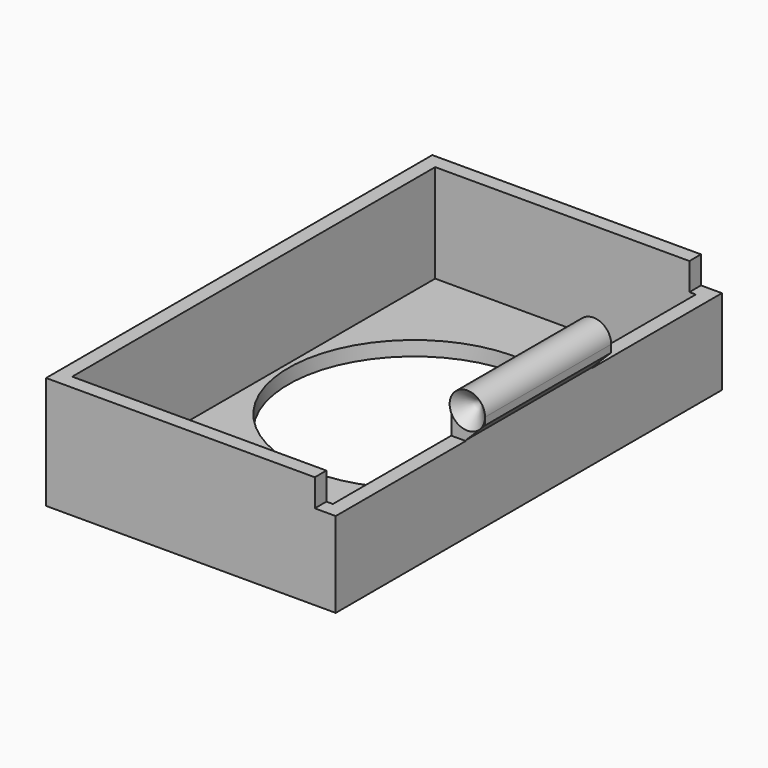
from build123d import *

# Parameters (mm, degrees)
SKETCH010_W     = 90
SKETCH010_H     = 150
PAD004_DEPTH    = 35
SKETCH011_W     = 81
SKETCH011_H     = 141
POCKET004_DEPTH = 30.5
SKETCH012_R     = 5.5
PAD005_DEPTH    = 150
SKETCH015_W     = 50.5
SKETCH015_H     = 14
POCKET006_DEPTH = 7.5
PAD007_DEPTH    = 49
SKETCH024_R     = 39
POCKET009_DEPTH = 5


with BuildPart() as part:
    # Sketch010 → Pad004 (new body)
    with BuildSketch(Plane.XY):
        with Locations((-46, 75)):
            Rectangle(SKETCH010_W, SKETCH010_H)
    extrude(amount=PAD004_DEPTH)

    # Sketch011 (on Face6 of Pad004) → Pocket004 (cut)
    with BuildSketch(Plane.XY.offset(35)):
        with Locations((-46, 75)):
            Rectangle(SKETCH011_W, SKETCH011_H)
    extrude(amount=-POCKET004_DEPTH, mode=Mode.SUBTRACT)

    # Sketch012 → Pad005 (join)
    with BuildSketch(Plane.XZ):
        with Locations((-0.5, 35)):
            Circle(SKETCH012_R)
    extrude(amount=-PAD005_DEPTH)

    # Sketch015 → Pocket006 (cut, symmetric)
    with BuildSketch(Plane.YZ):
        with Locations((25.25, 33.5)):
            Rectangle(SKETCH015_W, SKETCH015_H)
        with Locations((124.75, 33.5)):
            Rectangle(SKETCH015_W, SKETCH015_H)
    extrude(amount=POCKET006_DEPTH, both=True, mode=Mode.SUBTRACT)

    # Sketch016 (on Face13 of Pocket006) → Pad007 (join)
    with BuildSketch(Plane.XZ.offset(-50.5)):
        Polygon((-1, 26.7), (5, 32.7), (5, 35), (-1, 35), align=None)
    extrude(amount=-PAD007_DEPTH)

    # Sketch020 (on DatumPlane) → Groove (revolve, cut)
    with BuildSketch(Plane(origin=(-0.5, 99.5, 0), x_dir=(0, -1, 0), z_dir=(-1, 0, 0))):
        Polygon((-1, 28.5), (5.5, 35), (-1, 35), align=None)
        Polygon((50, 28.5), (43.5, 35), (50, 35), align=None)
    revolve(axis=Axis((-0.5, 94, 35), (0, 1, 0)), mode=Mode.SUBTRACT)

    # Sketch024 (on Face18 of Groove) → Pocket009 (cut)
    with BuildSketch(Plane.XY.offset(4.5)):
        with Locations((-46, 86.65)):
            Circle(SKETCH024_R)
    extrude(amount=-POCKET009_DEPTH, mode=Mode.SUBTRACT)


solid = part.part
